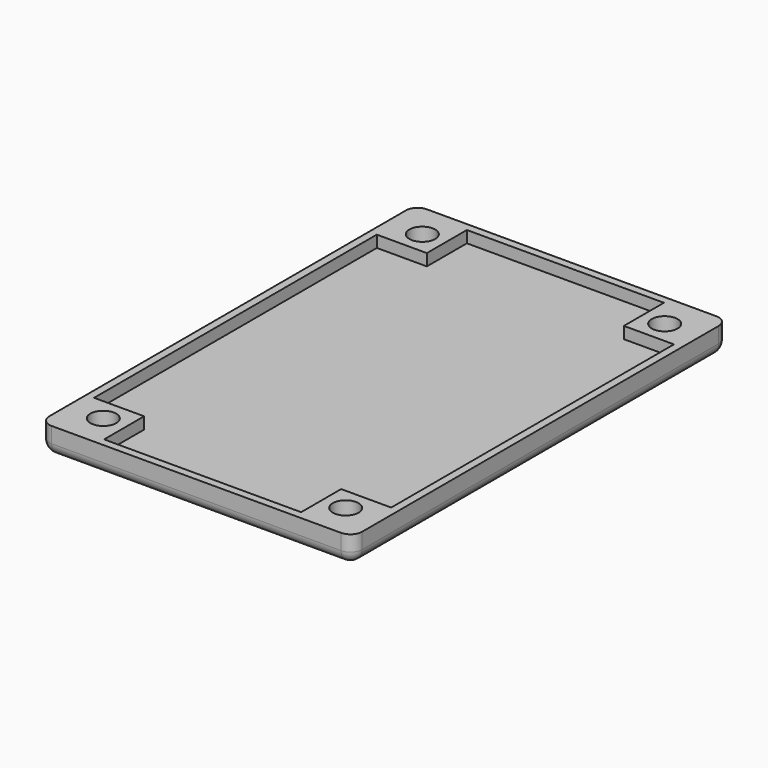
from build123d import *

# Parameters (mm, degrees)
COPYSKETCH003_W  = 40
COPYSKETCH003_H  = 60
PAD_DEPTH        = 3.5
POCKET_DEPTH     = 1.5
FILLET_R         = 1.5
FILLET001_R      = 1.5
HOLE_D           = 3.3
HOLE_DEPTH       = 25
HOLE_CSINK_D     = 6
HOLE_CSINK_ANGLE = 90


with BuildPart() as part:
    # CopySketch003 → Pad (new body)
    with BuildSketch(Plane.XY):
        Rectangle(COPYSKETCH003_W, COPYSKETCH003_H)
    extrude(amount=PAD_DEPTH)

    # CopySketch002 → Pocket (cut)
    with BuildSketch(Plane.XY.offset(3.5)):
        Polygon((-12.6, 29), (12.6, 29), (12.6, 22.6), (19, 22.6), (19, -22.6), (12.6, -22.6), (12.6, -29), (-12.6, -29), (-12.6, -22.6), (-19, -22.6), (-19, 22.6), (-12.6, 22.6), align=None)
    extrude(amount=-POCKET_DEPTH, mode=Mode.SUBTRACT)

    # Fillet
    fillet_edges = [part.edges().sort_by_distance(p)[0] for p in [
        (20, -30, 1.75),
        (-20, -30, 1.75),
        (20, 30, 1.75),
        (-20, 30, 1.75),
    ]]
    fillet(fillet_edges, radius=FILLET_R)

    # Fillet001
    fillet001_edges = [part.edges().sort_by_distance(p)[0] for p in [
        (0, 30, 0),
        (-19.56066, 29.56066, 0),
        (19.56066, 29.56066, 0),
        (-20, 0, 0),
        (20, 0, 0),
        (-19.56066, -29.56066, 0),
        (19.56066, -29.56066, 0),
        (0, -30, 0),
    ]]
    fillet(fillet001_edges, radius=FILLET001_R)

    # Hole
    with Locations(Plane(origin=(0, 0, 0), x_dir=(1, 0, 0), z_dir=(0, 0, -1))):
        with Locations((15.5, 25.5), (15.5, -25.5), (-15.5, -25.5), (-15.5, 25.5)):
            CounterSinkHole(HOLE_D / 2, HOLE_CSINK_D / 2, depth=HOLE_DEPTH, counter_sink_angle=HOLE_CSINK_ANGLE)


solid = part.part
